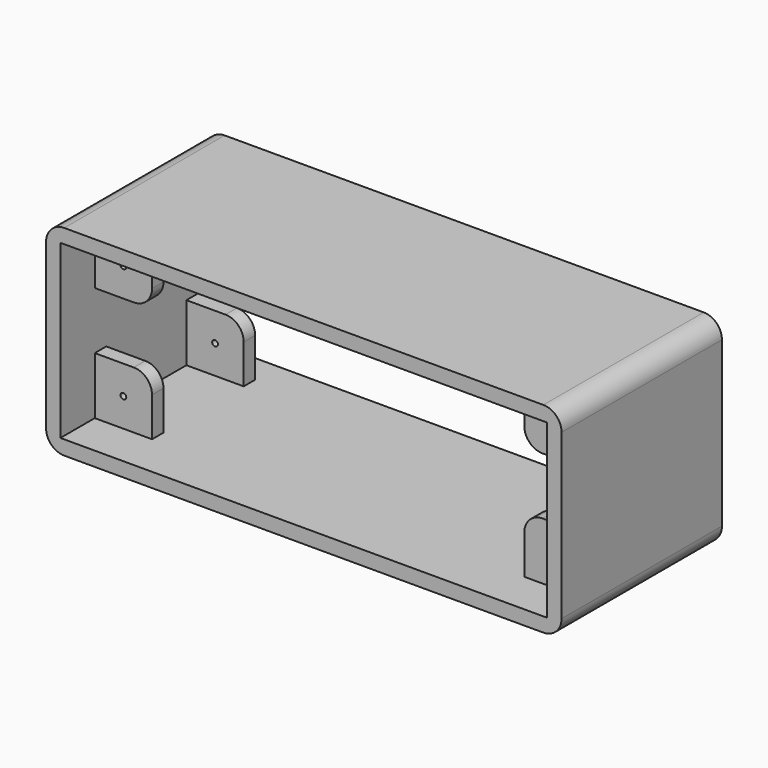
from build123d import *

# Parameters (mm, degrees)
F1_DEPTH = 70
F2_START = -15
F0_R     = 1
F2_DEPTH = 5
F3_START = -55
F3_DEPTH = 5


with BuildPart() as f1:
    # F0 (on Front) → F1 (new body)
    with BuildSketch(Plane.XZ):
        with BuildLine():
            Line((81.2036521524, 41.5010131064), (-86.0963478476, 41.5010131064))
            ThreePointArc((-86.0963478476, 41.5010131064), (-90.5864759081, 39.6411411669), (-92.4463478476, 35.1510131064))
            Line((-92.4463478476, 35.1510131064), (-92.4463478476, -22.1489868936))
            ThreePointArc((-92.4463478476, -22.1489868936), (-90.5864759081, -26.6391149541), (-86.0963478476, -28.4989868936))
            Line((-86.0963478476, -28.4989868936), (81.2036521524, -28.4989868936))
            ThreePointArc((81.2036521524, -28.4989868936), (85.693780213, -26.6391149541), (87.5536521524, -22.1489868936))
            Line((87.5536521524, -22.1489868936), (87.5536521524, 35.1510131064))
            ThreePointArc((87.5536521524, 35.1510131064), (85.693780213, 39.6411411669), (81.2036521524, 41.5010131064))
        make_face()
        Polygon((-87.4463478476, 16.5010131064), (-87.4463478476, 36.5010131064), (-67.4463478476, 36.5010131064), (-62.4463478476, 36.5010131064), (-7.4463478476, 36.5010131064), (62.5536521524, 36.5010131064), (82.5536521524, 36.5010131064), (82.5536521524, 16.5010131064), (82.5536521524, -3.4989868936), (82.5536521524, -23.4989868936), (62.5536521524, -23.4989868936), (-7.4463478476, -23.4989868936), (-12.4463478476, -23.4989868936), (-62.4463478476, -23.4989868936), (-67.4463478476, -23.4989868936), (-87.4463478476, -23.4989868936), (-87.4463478476, -3.4989868936), align=None, mode=Mode.SUBTRACT)
    extrude(amount=-F1_DEPTH)

    # F0 (on Front) → F2 (join)
    with BuildSketch(Plane.XZ.offset(F2_START)):
        with BuildLine():
            Line((-73.7963478476, -3.4989868936), (-87.4463478476, -3.4989868936))
            Line((-87.4463478476, -3.4989868936), (-87.4463478476, -23.4989868936))
            Line((-87.4463478476, -23.4989868936), (-67.4463478476, -23.4989868936))
            Line((-67.4463478476, -23.4989868936), (-67.4463478476, -18.4989868936))
            Line((-67.4463478476, -18.4989868936), (-67.4463478476, -9.8489868936))
            ThreePointArc((-67.4463478476, -9.8489868936), (-69.306219787, -5.3588588331), (-73.7963478476, -3.4989868936))
        make_face()
        with Locations((-77.4463478476, -13.4989868936)):
            Circle(F0_R, mode=Mode.SUBTRACT)
        with BuildLine():
            Line((62.5536521524, -9.8489868936), (62.5536521524, -23.4989868936))
            Line((62.5536521524, -23.4989868936), (82.5536521524, -23.4989868936))
            Line((82.5536521524, -23.4989868936), (82.5536521524, -3.4989868936))
            Line((82.5536521524, -3.4989868936), (68.9036521524, -3.4989868936))
            ThreePointArc((68.9036521524, -3.4989868936), (64.4135240919, -5.3588588331), (62.5536521524, -9.8489868936))
        make_face()
        with Locations((72.5536521524, -13.4989868936)):
            Circle(F0_R, mode=Mode.SUBTRACT)
        with BuildLine():
            Line((82.5536521524, 36.5010131064), (62.5536521524, 36.5010131064))
            Line((62.5536521524, 36.5010131064), (62.5536521524, 22.8510131064))
            ThreePointArc((62.5536521524, 22.8510131064), (64.4135240919, 18.3608850459), (68.9036521524, 16.5010131064))
            Line((68.9036521524, 16.5010131064), (82.5536521524, 16.5010131064))
            Line((82.5536521524, 16.5010131064), (82.5536521524, 36.5010131064))
        make_face()
        with Locations((72.5536521524, 26.5010131064)):
            Circle(F0_R, mode=Mode.SUBTRACT)
        with BuildLine():
            Line((-67.4463478476, 36.5010131064), (-87.4463478476, 36.5010131064))
            Line((-87.4463478476, 36.5010131064), (-87.4463478476, 16.5010131064))
            Line((-87.4463478476, 16.5010131064), (-73.7963478476, 16.5010131064))
            ThreePointArc((-73.7963478476, 16.5010131064), (-69.306219787, 18.3608850459), (-67.4463478476, 22.8510131064))
            Line((-67.4463478476, 22.8510131064), (-67.4463478476, 36.5010131064))
        make_face()
        with Locations((-77.4463478476, 26.5010131064)):
            Circle(F0_R, mode=Mode.SUBTRACT)
    extrude(amount=-F2_DEPTH)

    # F0 (on Front) → F3 (join)
    with BuildSketch(Plane.XZ.offset(F3_START)):
        with BuildLine():
            Line((82.5536521524, 36.5010131064), (62.5536521524, 36.5010131064))
            Line((62.5536521524, 36.5010131064), (62.5536521524, 22.8510131064))
            ThreePointArc((62.5536521524, 22.8510131064), (64.4135240919, 18.3608850459), (68.9036521524, 16.5010131064))
            Line((68.9036521524, 16.5010131064), (82.5536521524, 16.5010131064))
            Line((82.5536521524, 16.5010131064), (82.5536521524, 36.5010131064))
        make_face()
        with Locations((72.5536521524, 26.5010131064)):
            Circle(F0_R, mode=Mode.SUBTRACT)
        with BuildLine():
            Line((62.5536521524, -9.8489868936), (62.5536521524, -23.4989868936))
            Line((62.5536521524, -23.4989868936), (82.5536521524, -23.4989868936))
            Line((82.5536521524, -23.4989868936), (82.5536521524, -3.4989868936))
            Line((82.5536521524, -3.4989868936), (68.9036521524, -3.4989868936))
            ThreePointArc((68.9036521524, -3.4989868936), (64.4135240919, -5.3588588331), (62.5536521524, -9.8489868936))
        make_face()
        with Locations((72.5536521524, -13.4989868936)):
            Circle(F0_R, mode=Mode.SUBTRACT)
        with BuildLine():
            Line((-73.7963478476, -3.4989868936), (-87.4463478476, -3.4989868936))
            Line((-87.4463478476, -3.4989868936), (-87.4463478476, -23.4989868936))
            Line((-87.4463478476, -23.4989868936), (-67.4463478476, -23.4989868936))
            Line((-67.4463478476, -23.4989868936), (-67.4463478476, -18.4989868936))
            Line((-67.4463478476, -18.4989868936), (-67.4463478476, -9.8489868936))
            ThreePointArc((-67.4463478476, -9.8489868936), (-69.306219787, -5.3588588331), (-73.7963478476, -3.4989868936))
        make_face()
        with Locations((-77.4463478476, -13.4989868936)):
            Circle(F0_R, mode=Mode.SUBTRACT)
        with BuildLine():
            Line((-67.4463478476, 36.5010131064), (-87.4463478476, 36.5010131064))
            Line((-87.4463478476, 36.5010131064), (-87.4463478476, 16.5010131064))
            Line((-87.4463478476, 16.5010131064), (-73.7963478476, 16.5010131064))
            ThreePointArc((-73.7963478476, 16.5010131064), (-69.306219787, 18.3608850459), (-67.4463478476, 22.8510131064))
            Line((-67.4463478476, 22.8510131064), (-67.4463478476, 36.5010131064))
        make_face()
        with Locations((-77.4463478476, 26.5010131064)):
            Circle(F0_R, mode=Mode.SUBTRACT)
    extrude(amount=-F3_DEPTH)


solid = f1.part
